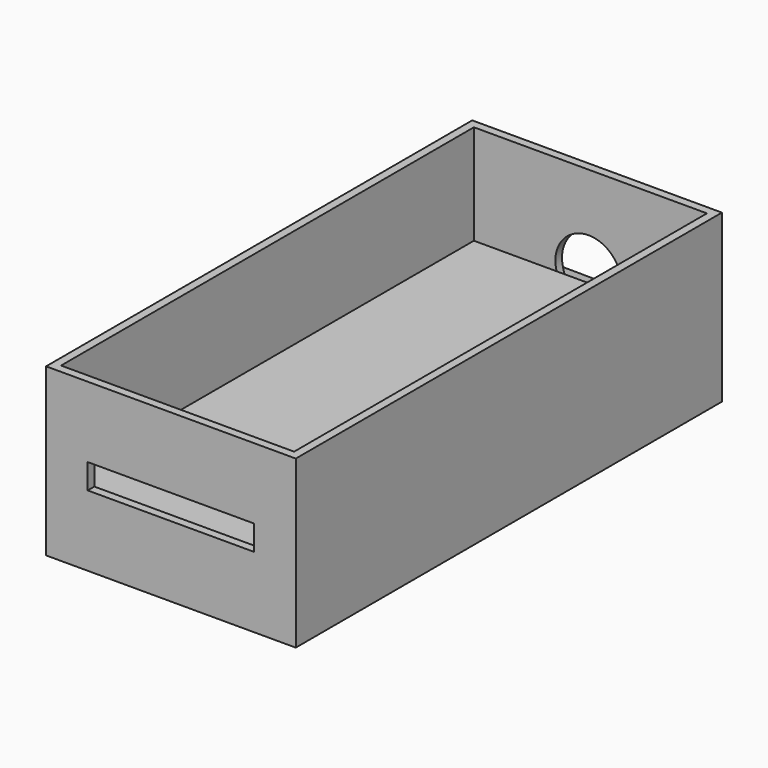
from build123d import *

# Parameters (mm, degrees)
SKETCH001_W             = 14
SKETCH001_H             = 31
PAD001_DEPTH            = 4
SKETCH003_R             = 1.993663
PAD005_DEPTH            = 1
BODY003_ROLL_ANGLE      = 85.080334
BODY003_PITCH_ANGLE     = -12.894288
BODY003_PLACEMENT_ANGLE = 1.138227
SKETCH002_W             = 1.5
SKETCH002_H             = 4
PAD004_DEPTH            = 10
BODY002_PITCH_ANGLE     = -90
BODY002_PLACEMENT_ANGLE = -180
SKETCH_W                = 15
SKETCH_H                = 32
SKETCH_W_2              = 14
SKETCH_H_2              = 31
PAD_DEPTH               = 10


with BuildPart() as body001:
    # Sketch001 → Pad001 (new body)
    with BuildSketch(Plane.XY):
        Rectangle(SKETCH001_W, SKETCH001_H)
    extrude(amount=PAD001_DEPTH)


with BuildPart() as body003:
    # Sketch003 → Pad005 (new body)
    with BuildSketch(Plane.XY):
        with Locations((0, 0.5)):
            Circle(SKETCH003_R)
    extrude(amount=PAD005_DEPTH)


with BuildPart() as body003_1:
    # Body003 roll: moved
    add(body003.part.rotate(Axis((0, 0, 0), (1, 0, 0)), BODY003_ROLL_ANGLE))


with BuildPart() as body003_2:
    # Body003 pitch: moved
    add(body003_1.part.rotate(Axis((0, 0, 0), (0, 1, 0)), BODY003_PITCH_ANGLE))


with BuildPart() as body003_3:
    # Body003 placement: moved
    add(body003_2.part.moved(Location((0, 16, 4))).rotate(Axis((0, 16, 4), (0, 0, 1)), BODY003_PLACEMENT_ANGLE))


with BuildPart() as body002:
    # Sketch002 → Pad004 (new body)
    with BuildSketch(Plane.XY):
        Rectangle(SKETCH002_W, SKETCH002_H)
    extrude(amount=PAD004_DEPTH)


with BuildPart() as body002_1:
    # Body002 pitch: moved
    add(body002.part.rotate(Axis((0, 0, 0), (0, 1, 0)), BODY002_PITCH_ANGLE))


with BuildPart() as body002_2:
    # Body002 placement: moved
    add(body002_1.part.moved(Location((-5, -14, 5))).rotate(Axis((-5, -14, 5), (0, 0, 1)), BODY002_PLACEMENT_ANGLE))


with BuildPart() as cut001:
    # Sketch → Pad (new body)
    with BuildSketch(Plane.XY):
        Rectangle(SKETCH_W, SKETCH_H)
        Rectangle(SKETCH_W_2, SKETCH_H_2, mode=Mode.SUBTRACT)
    extrude(amount=PAD_DEPTH)

    # Cut: cut Body002
    add(body002_2.part, mode=Mode.SUBTRACT)

    # Cut001: cut Body003
    add(body003_3.part, mode=Mode.SUBTRACT)


solid = Compound([body001.part, cut001.part])
